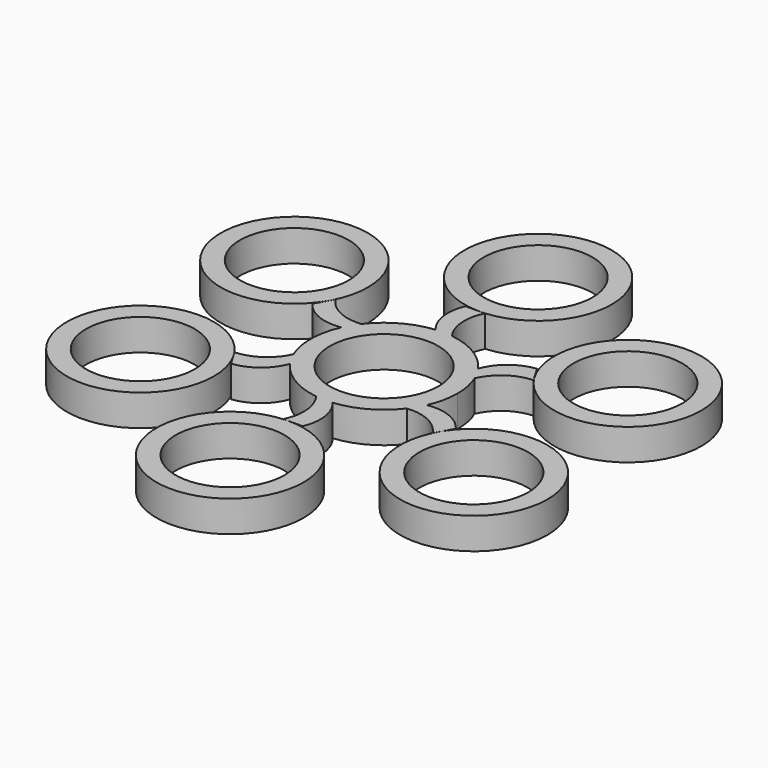
from build123d import *

# Parameters (mm, degrees)
F1_DEPTH  = 6.35
F0_R      = 14.9225
F2_R      = 11.0236
F3_DEPTH  = 25.4
F4_R      = 11.0236
F9_DEPTH  = 25.4
F5_R      = 11.0236
F10_DEPTH = 25.4
F6_R      = 11.0236
F11_DEPTH = 25.4
F7_R      = 11.0236
F12_DEPTH = 25.4
F8_R      = 11.0236
F13_DEPTH = 25.4
F14_R     = 11.0236
F15_DEPTH = 25.4


with BuildPart() as f1:
    # F0 (on Top) → F1 (new body)
    with BuildSketch(Plane.XY):
        with BuildLine():
            ThreePointArc((13.5851728598, -6.1744703917), (14.5843366022, -3.1588181531), (14.9225, 0))
            ThreePointArc((14.9225, 0), (14.6332768111, 2.9237332336), (13.7768185095, 5.7341327162))
            ThreePointArc((13.7768185095, 5.7341327162), (13.0416496044, 7.2523363026), (12.1398346441, 8.6778696156))
            ThreePointArc((12.1398346441, 8.6778696156), (7.6682317133, 12.8015322771), (1.9225046539, 14.7981411706))
            Line((1.9225046539, 14.7981411706), (-1.4453382158, 14.8523400073))
            ThreePointArc((-1.4453382158, 14.8523400073), (-7.2523363026, 13.0416496044), (-11.8543138556, 9.0640084545))
            ThreePointArc((-11.8543138556, 9.0640084545), (-12.8015322771, 7.6682317133), (-13.5851728598, 6.1744703917))
            ThreePointArc((-13.5851728598, 6.1744703917), (-14.920568016, 0.2401173273), (-13.7768185095, -5.7341327162))
            ThreePointArc((-13.7768185095, -5.7341327162), (-13.0416496044, -7.2523363026), (-12.1398346441, -8.6778696156))
            ThreePointArc((-12.1398346441, -8.6778696156), (-7.6682317133, -12.8015322771), (-1.9225046539, -14.7981411706))
            ThreePointArc((-1.9225046539, -14.7981411706), (-0.2401173273, -14.920568016), (1.4453382158, -14.8523400073))
            ThreePointArc((1.4453382158, -14.8523400073), (7.2523363026, -13.0416496044), (11.8543138556, -9.0640084545))
            ThreePointArc((11.8543138556, -9.0640084545), (12.8015322771, -7.6682317133), (13.5851728598, -6.1744703917))
        make_face()
        with BuildLine():
            ThreePointArc((12.1398346441, 8.6778696156), (13.0416496044, 7.2523363026), (13.7768185095, 5.7341327162))
            ThreePointArc((13.7768185095, 5.7341327162), (16.8591903149, 9.4769405192), (21.4457825511, 11.0494537487))
            Line((21.4457825511, 11.0494537487), (19.4782146588, 14.4573813055))
            ThreePointArc((19.4782146588, 14.4573813055), (14.9901897235, 12.6073191567), (12.1398346441, 8.6778696156))
        make_face()
        with BuildLine():
            ThreePointArc((22.2595668121, -9.6399380622), (18.413353525, -6.6782255297), (13.5851728598, -6.1744703917))
            ThreePointArc((13.5851728598, -6.1744703917), (12.8015322771, -7.6682317133), (11.8543138556, -9.0640084545))
            ThreePointArc((11.8543138556, -9.0640084545), (16.6368663973, -9.8620168404), (20.2919989199, -13.047865619))
            Line((20.2919989199, -13.047865619), (22.2595668121, -9.6399380622))
        make_face()
        with BuildLine():
            Line((-1.4453382158, 14.8523400073), (1.9225046539, 14.7981411706))
            ThreePointArc((1.9225046539, 14.7981411706), (0.2401173273, 14.920568016), (-1.4453382158, 14.8523400073))
        make_face()
        with BuildLine():
            ThreePointArc((-1.4453382158, 14.8523400073), (0.2401173273, 14.920568016), (1.9225046539, 14.7981411706))
            ThreePointArc((1.9225046539, 14.7981411706), (0.2223239177, 19.3389573596), (1.1537836313, 24.0973193676))
            Line((1.1537836313, 24.0973193676), (-2.7813521533, 24.0973193676))
            ThreePointArc((-2.7813521533, 24.0973193676), (-3.4231638016, 19.2855446864), (-1.4453382158, 14.8523400073))
        make_face()
        with BuildLine():
            ThreePointArc((2.7813521533, -24.0973193676), (3.4231638016, -19.2855446864), (1.4453382158, -14.8523400073))
            ThreePointArc((1.4453382158, -14.8523400073), (-0.2401173273, -14.920568016), (-1.9225046539, -14.7981411706))
            ThreePointArc((-1.9225046539, -14.7981411706), (-0.2223239177, -19.3389573596), (-1.1537836313, -24.0973193676))
            Line((-1.1537836313, -24.0973193676), (2.7813521533, -24.0973193676))
        make_face()
        with BuildLine():
            ThreePointArc((-13.5851728598, 6.1744703917), (-12.8015322771, 7.6682317133), (-11.8543138556, 9.0640084545))
            ThreePointArc((-11.8543138556, 9.0640084545), (-16.6368663973, 9.8620168404), (-20.2919989199, 13.047865619))
            Line((-20.2919989199, 13.047865619), (-22.2595668121, 9.6399380622))
            ThreePointArc((-22.2595668121, 9.6399380622), (-18.413353525, 6.6782255297), (-13.5851728598, 6.1744703917))
        make_face()
        with BuildLine():
            ThreePointArc((-19.4782146588, -14.4573813055), (-14.9901897235, -12.6073191567), (-12.1398346441, -8.6778696156))
            ThreePointArc((-12.1398346441, -8.6778696156), (-13.0416496044, -7.2523363026), (-13.7768185095, -5.7341327162))
            ThreePointArc((-13.7768185095, -5.7341327162), (-16.8591903149, -9.4769405192), (-21.4457825511, -11.0494537487))
            Line((-21.4457825511, -11.0494537487), (-19.4782146588, -14.4573813055))
        make_face()
    extrude(amount=F1_DEPTH)

    # F4 (on face) → F9 (cut)
    with BuildSketch(Plane.XY.offset(6.35)):
        with Locations((0, 39.0322469175)):
            Circle(F4_R)
    extrude(amount=-F9_DEPTH, mode=Mode.SUBTRACT)

    # F5 (on face) → F10 (cut)
    with BuildSketch(Plane.XY.offset(6.35)):
        with Locations((33.8029173973, 19.5161234587)):
            Circle(F5_R)
    extrude(amount=-F10_DEPTH, mode=Mode.SUBTRACT)

    # F6 (on face) → F11 (cut)
    with BuildSketch(Plane.XY.offset(6.35)):
        with Locations((33.8029173973, -19.5161234587)):
            Circle(F6_R)
    extrude(amount=-F11_DEPTH, mode=Mode.SUBTRACT)

    # F7 (on face) → F12 (cut)
    with BuildSketch(Plane.XY.offset(6.35)):
        with Locations((0, -39.0322469175)):
            Circle(F7_R)
    extrude(amount=-F12_DEPTH, mode=Mode.SUBTRACT)

    # F8 (on face) → F13 (cut)
    with BuildSketch(Plane.XY.offset(6.35)):
        with Locations((-33.8029173973, -19.5161234587)):
            Circle(F8_R)
    extrude(amount=-F13_DEPTH, mode=Mode.SUBTRACT)

    # F14 (on face) → F15 (cut)
    with BuildSketch(Plane.XY.offset(6.35)):
        Circle(F14_R)
    extrude(amount=-F15_DEPTH, mode=Mode.SUBTRACT)


with BuildPart() as f1b:
    # F0 (on Top) → F1, piece 2 (new body)
    with BuildSketch(Plane.XY):
        with Locations((0, 39.0322469175)):
            Circle(F0_R)
    extrude(amount=F1_DEPTH)


with BuildPart() as f1c:
    # F0 (on Top) → F1, piece 3 (new body)
    with BuildSketch(Plane.XY):
        with Locations((-33.8029173973, 19.5161234587)):
            Circle(F0_R)
    extrude(amount=F1_DEPTH)


with BuildPart() as f1d:
    # F0 (on Top) → F1, piece 4 (new body)
    with BuildSketch(Plane.XY):
        with Locations((-33.8029173973, -19.5161234587)):
            Circle(F0_R)
    extrude(amount=F1_DEPTH)


with BuildPart() as f1e:
    # F0 (on Top) → F1, piece 5 (new body)
    with BuildSketch(Plane.XY):
        with Locations((0, -39.0322469175)):
            Circle(F0_R)
    extrude(amount=F1_DEPTH)


with BuildPart() as f1f:
    # F0 (on Top) → F1, piece 6 (new body)
    with BuildSketch(Plane.XY):
        with Locations((33.8029173973, -19.5161234587)):
            Circle(F0_R)
    extrude(amount=F1_DEPTH)


with BuildPart() as f1g:
    # F0 (on Top) → F1, piece 7 (new body)
    with BuildSketch(Plane.XY):
        with Locations((33.8029173973, 19.5161234587)):
            Circle(F0_R)
    extrude(amount=F1_DEPTH)


with BuildPart() as f3_tool:
    # F2 (on face) → F3 (new body)
    with BuildSketch(Plane.XY.offset(6.35)):
        with Locations((-33.8029173973, 19.5161234587)):
            Circle(F2_R)
        with Locations((0, 39.0322469175)):
            Circle(F2_R)
        with Locations((33.8029173973, 19.5161234587)):
            Circle(F2_R)
        with Locations((33.8029173973, -19.5161234587)):
            Circle(F2_R)
        with Locations((0, -39.0322469175)):
            Circle(F2_R)
        with Locations((-33.8029173973, -19.5161234587)):
            Circle(F2_R)
    extrude(amount=-F3_DEPTH)


with BuildPart() as f1b_1:
    add(f1b.part)

    # F3: cut by f3_tool
    add(f3_tool.part, mode=Mode.SUBTRACT)


with BuildPart() as f1c_1:
    add(f1c.part)

    # F3: cut by f3_tool
    add(f3_tool.part, mode=Mode.SUBTRACT)


with BuildPart() as f1d_1:
    add(f1d.part)

    # F3: cut by f3_tool
    add(f3_tool.part, mode=Mode.SUBTRACT)


with BuildPart() as f1e_1:
    add(f1e.part)

    # F3: cut by f3_tool
    add(f3_tool.part, mode=Mode.SUBTRACT)


with BuildPart() as f1f_1:
    add(f1f.part)

    # F3: cut by f3_tool
    add(f3_tool.part, mode=Mode.SUBTRACT)


with BuildPart() as f1g_1:
    add(f1g.part)

    # F3: cut by f3_tool
    add(f3_tool.part, mode=Mode.SUBTRACT)


solid = Compound([f1.part, f1b_1.part, f1c_1.part, f1d_1.part, f1e_1.part, f1f_1.part, f1g_1.part])
